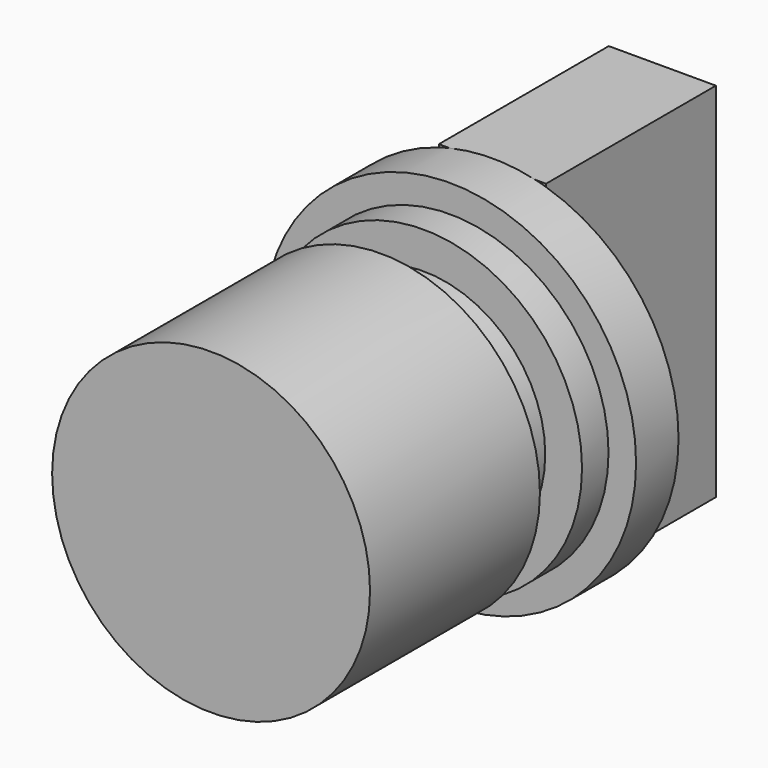
from build123d import *

# Parameters (mm, degrees)
F0_R     = 11.130797
F1_DEPTH = 3.175
F2_W     = 6.405964
F2_H     = 21.666086
F3_DEPTH = 12.7
F4_R     = 9.48328
F5_DEPTH = 5.1562
F6_R     = 7.284162
F7_DEPTH = 8.3312
F8_R     = 9.506324
F9_DEPTH = 12.7


with BuildPart() as f1:
    # F0 (on Front) → F1 (new body)
    with BuildSketch(Plane.XZ):
        Circle(F0_R)
    extrude(amount=F1_DEPTH)

    # F2 (on Front) → F3 (join)
    with BuildSketch(Plane.XZ):
        Rectangle(F2_W, F2_H)
    extrude(amount=-F3_DEPTH)

    # F4 (on Front) → F5 (join)
    with BuildSketch(Plane.XZ):
        Circle(F4_R)
    extrude(amount=F5_DEPTH)

    # F6 (on Front) → F7 (join)
    with BuildSketch(Plane.XZ):
        Circle(F6_R)
    extrude(amount=F7_DEPTH)

    # F8 (on face) → F9 (join)
    with BuildSketch(Plane.XZ.offset(8.3312)):
        Circle(F8_R)
    extrude(amount=F9_DEPTH)


solid = f1.part
